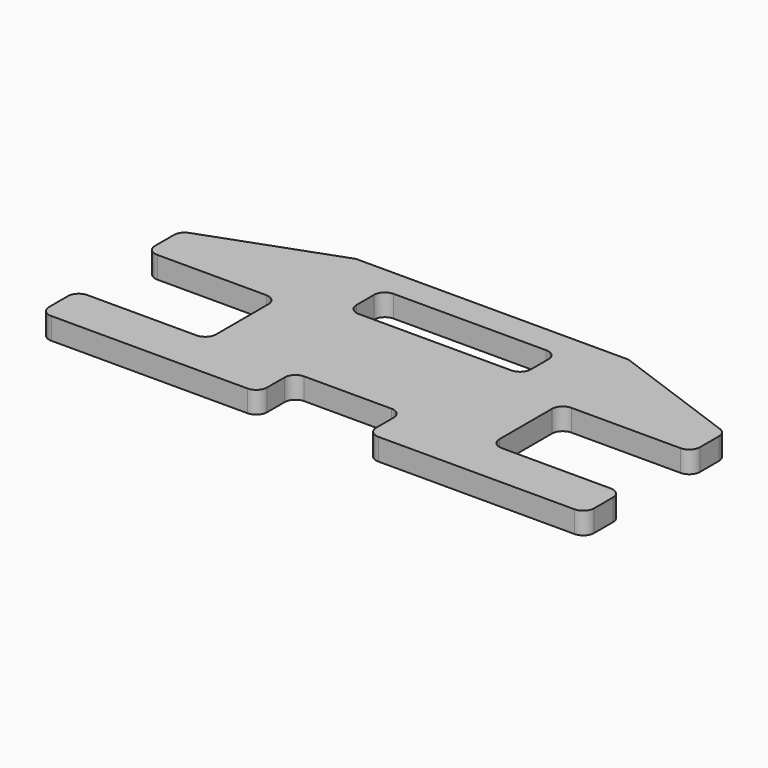
from build123d import *

# Parameters (mm, degrees)
F1_DEPTH = 25.4


with BuildPart() as f1:
    # F0 (on Top) → F1 (new body)
    with BuildSketch(Plane.XY):
        with BuildLine():
            Line((76.2, -101.6), (304.8, -101.6))
            ThreePointArc((304.8, -101.6), (313.780256, -97.880256), (317.5, -88.9))
            Line((317.5, -88.9), (317.5, -61.596318))
            ThreePointArc((317.5, -61.596318), (313.780256, -52.616062), (304.8, -48.896318))
            Line((304.8, -48.896318), (177.8, -48.896318))
            ThreePointArc((177.8, -48.896318), (168.819744, -45.176574), (165.1, -36.196318))
            Line((165.1, -36.196318), (165.1, 40.003682))
            ThreePointArc((165.1, 40.003682), (168.819744, 48.983938), (177.8, 52.703682))
            Line((177.8, 52.703682), (304.8, 52.703682))
            ThreePointArc((304.8, 52.703682), (313.780256, 56.423426), (317.5, 65.403682))
            Line((317.5, 65.403682), (317.5, 92.707364))
            ThreePointArc((317.5, 92.707364), (315.203231, 99.991785), (309.143656, 104.641461))
            Line((309.143656, 104.641461), (158.75, 159.380275))
            Line((158.75, 159.380275), (-158.75, 159.380275))
            Line((-158.75, 159.380275), (-309.143656, 104.641461))
            ThreePointArc((-309.143656, 104.641461), (-315.203231, 99.991785), (-317.5, 92.707364))
            Line((-317.5, 92.707364), (-317.5, 65.403682))
            ThreePointArc((-317.5, 65.403682), (-313.780256, 56.423426), (-304.8, 52.703682))
            Line((-304.8, 52.703682), (-177.8, 52.703682))
            ThreePointArc((-177.8, 52.703682), (-168.819744, 48.983938), (-165.1, 40.003682))
            Line((-165.1, 40.003682), (-165.1, -36.196318))
            ThreePointArc((-165.1, -36.196318), (-168.819744, -45.176574), (-177.8, -48.896318))
            Line((-177.8, -48.896318), (-304.8, -48.896318))
            ThreePointArc((-304.8, -48.896318), (-313.780256, -52.616062), (-317.5, -61.596318))
            Line((-317.5, -61.596318), (-317.5, -88.9))
            ThreePointArc((-317.5, -88.9), (-313.780256, -97.880256), (-304.8, -101.6))
            Line((-304.8, -101.6), (-76.2, -101.6))
            ThreePointArc((-76.2, -101.6), (-67.219744, -97.880256), (-63.5, -88.9))
            Line((-63.5, -88.9), (-63.5, -63.5))
            ThreePointArc((-63.5, -63.5), (-59.780256, -54.519744), (-50.8, -50.8))
            Line((-50.8, -50.8), (50.8, -50.8))
            ThreePointArc((50.8, -50.8), (59.780256, -54.519744), (63.5, -63.5))
            Line((63.5, -63.5), (63.5, -88.9))
            ThreePointArc((63.5, -88.9), (67.219744, -97.880256), (76.2, -101.6))
        make_face()
        with BuildLine():
            ThreePointArc((-101.6, 114.3), (-97.880256, 123.280256), (-88.9, 127))
            Line((-88.9, 127), (88.9, 127))
            ThreePointArc((88.9, 127), (97.880256, 123.280256), (101.6, 114.3))
            Line((101.6, 114.3), (101.6, 88.9))
            ThreePointArc((101.6, 88.9), (97.880256, 79.919744), (88.9, 76.2))
            Line((88.9, 76.2), (-88.9, 76.2))
            ThreePointArc((-88.9, 76.2), (-97.880256, 79.919744), (-101.6, 88.9))
            Line((-101.6, 88.9), (-101.6, 114.3))
        make_face(mode=Mode.SUBTRACT)
    extrude(amount=F1_DEPTH)


solid = f1.part
